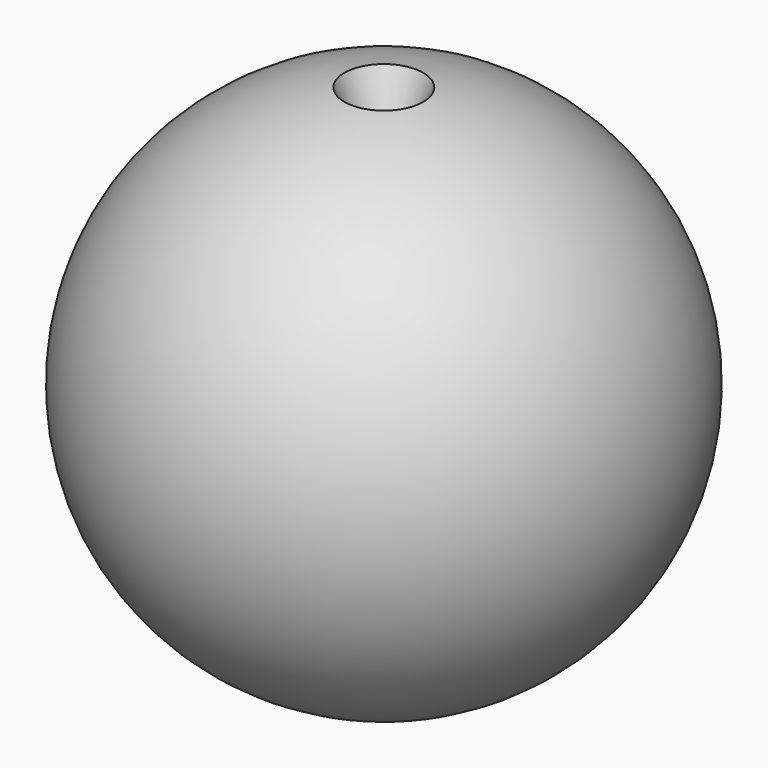
from build123d import *


with BuildPart() as f1:
    # F0 (on Front) → F1 (revolve)
    with BuildSketch(Plane.XZ):
        with BuildLine():
            ThreePointArc((0, 32.5), (-32.5, 0), (0, -32.5))
            Line((0, -32.5), (0, -27.5))
            ThreePointArc((0, -27.5), (-27.5, 0), (0, 27.5))
            Line((0, 27.5), (0, 32.5))
        make_face()
    revolve(axis=Axis((0, 0, 0), (0, 0, 1)))

    # F2 (on Front) → F3 (revolve, cut)
    with BuildSketch(Plane.XZ):
        Polygon((-6, 35), (0, 20), (0, 35), align=None)
    revolve(axis=Axis((0, 0, 27.5), (0, 0, -1)), mode=Mode.SUBTRACT)


solid = f1.part
